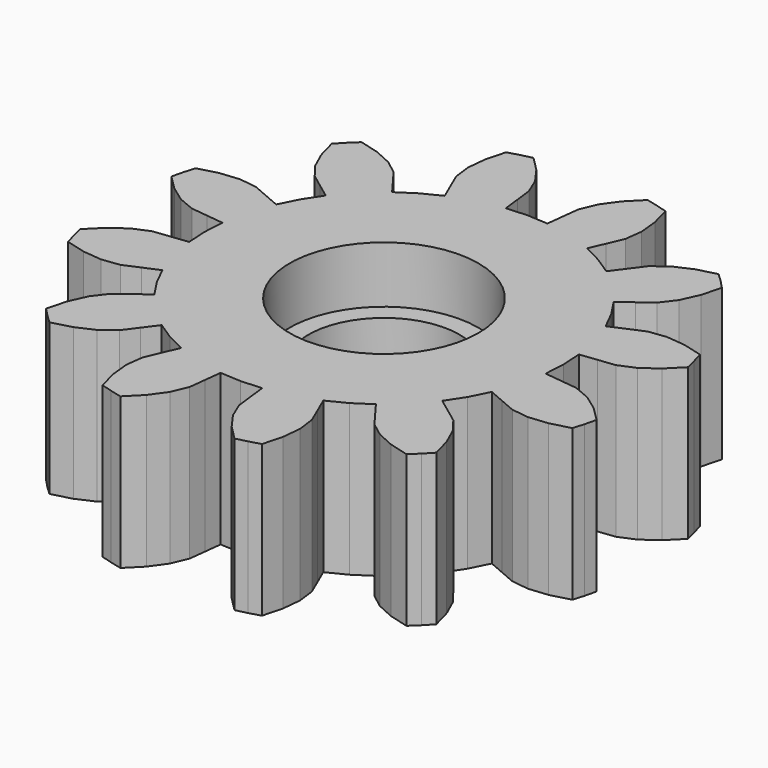
from build123d import *

# Parameters (mm, degrees)
F1_DEPTH = 4
F2_R     = 2.5
F3_DEPTH = 1.5
F4_R     = 2.5
F5_DEPTH = 1.5
F6_R     = 2
F7_DEPTH = 25


with BuildPart() as f1:
    # F0 (on Top) → F1 (new body)
    with BuildSketch(Plane.XY):
        Polygon((4.71808, -0.549743), (4.75, 0), (4.71808, 0.549743), (5.165056, 0.601824), (5.611973, 0.654414), (6.042571, 0.835065), (6.451897, 1.12939), (6.835156, 1.510179), (6.761481, 1.811733), (6.674508, 2.109724), (6.152202, 2.247869), (5.650552, 2.298099), (5.187318, 2.239248), (4.773982, 2.061333), (4.360849, 1.882949), (4.113621, 2.375), (3.811106, 2.835132), (4.172158, 3.103723), (4.532904, 3.372726), (4.815488, 3.744473), (5.022812, 4.204029), (5.164329, 4.725432), (4.949747, 4.949747), (4.725432, 5.164329), (4.204029, 5.022812), (3.744473, 4.815488), (3.372726, 4.532904), (3.103723, 4.172158), (2.835132, 3.811106), (2.375, 4.113621), (1.882949, 4.360849), (2.061333, 4.773982), (2.239248, 5.187318), (2.298099, 5.650552), (2.247869, 6.152202), (2.109724, 6.674508), (1.811733, 6.761481), (1.510179, 6.835156), (1.12939, 6.451897), (0.835065, 6.042571), (0.654414, 5.611973), (0.601824, 5.165056), (0.549743, 4.71808), (0, 4.75), (-0.549743, 4.71808), (-0.601824, 5.165056), (-0.654414, 5.611973), (-0.835065, 6.042571), (-1.12939, 6.451897), (-1.510179, 6.835156), (-1.811733, 6.761481), (-2.109724, 6.674508), (-2.247869, 6.152202), (-2.298099, 5.650552), (-2.239248, 5.187318), (-2.061333, 4.773982), (-1.882949, 4.360849), (-2.375, 4.113621), (-2.835132, 3.811106), (-3.103723, 4.172158), (-3.372726, 4.532904), (-3.744473, 4.815488), (-4.204029, 5.022812), (-4.725432, 5.164329), (-4.949747, 4.949747), (-5.164329, 4.725432), (-5.022812, 4.204029), (-4.815488, 3.744473), (-4.532904, 3.372726), (-4.172158, 3.103723), (-3.811106, 2.835132), (-4.113621, 2.375), (-4.360849, 1.882949), (-4.773982, 2.061333), (-5.187318, 2.239248), (-5.650552, 2.298099), (-6.152202, 2.247869), (-6.674508, 2.109724), (-6.761481, 1.811733), (-6.835156, 1.510179), (-6.451897, 1.12939), (-6.042571, 0.835065), (-5.611973, 0.654414), (-5.165056, 0.601824), (-4.71808, 0.549743), (-4.75, 0), (-4.71808, -0.549743), (-5.165056, -0.601824), (-5.611973, -0.654414), (-6.042571, -0.835065), (-6.451897, -1.12939), (-6.835156, -1.510179), (-6.761481, -1.811733), (-6.674508, -2.109724), (-6.152202, -2.247869), (-5.650552, -2.298099), (-5.187318, -2.239248), (-4.773982, -2.061333), (-4.360849, -1.882949), (-4.113621, -2.375), (-3.811106, -2.835132), (-4.172158, -3.103723), (-4.532904, -3.372726), (-4.815488, -3.744473), (-5.022812, -4.204029), (-5.164329, -4.725432), (-4.949747, -4.949747), (-4.725432, -5.164329), (-4.204029, -5.022812), (-3.744473, -4.815488), (-3.372726, -4.532904), (-3.103723, -4.172158), (-2.835132, -3.811106), (-2.375, -4.113621), (-1.882949, -4.360849), (-2.061333, -4.773982), (-2.239248, -5.187318), (-2.298099, -5.650552), (-2.247869, -6.152202), (-2.109724, -6.674508), (-1.811733, -6.761481), (-1.510179, -6.835156), (-1.12939, -6.451897), (-0.835065, -6.042571), (-0.654414, -5.611973), (-0.601824, -5.165056), (-0.549743, -4.71808), (0, -4.75), (0.549743, -4.71808), (0.601824, -5.165056), (0.654414, -5.611973), (0.835065, -6.042571), (1.12939, -6.451897), (1.510179, -6.835156), (1.811733, -6.761481), (2.109724, -6.674508), (2.247869, -6.152202), (2.298099, -5.650552), (2.239248, -5.187318), (2.061333, -4.773982), (1.882949, -4.360849), (2.375, -4.113621), (2.835132, -3.811106), (3.103723, -4.172158), (3.372726, -4.532904), (3.744473, -4.815488), (4.204029, -5.022812), (4.725432, -5.164329), (4.949747, -4.949747), (5.164329, -4.725432), (5.022812, -4.204029), (4.815488, -3.744473), (4.532904, -3.372726), (4.172158, -3.103723), (3.811106, -2.835132), (4.113621, -2.375), (4.360849, -1.882949), (4.773982, -2.061333), (5.187318, -2.239248), (5.650552, -2.298099), (6.152202, -2.247869), (6.674508, -2.109724), (6.761481, -1.811733), (6.835156, -1.510179), (6.451897, -1.12939), (6.042571, -0.835065), (5.611973, -0.654414), (5.165056, -0.601824), align=None)
    extrude(amount=F1_DEPTH)

    # F2 (on face) → F3 (cut)
    with BuildSketch(Plane(origin=(0, 0, 0), x_dir=(1, 0, 0), z_dir=(0, 0, -1))):
        Circle(F2_R)
    extrude(amount=-F3_DEPTH, mode=Mode.SUBTRACT)

    # F4 (on face) → F5 (cut)
    with BuildSketch(Plane.XY.offset(4)):
        Circle(F4_R)
    extrude(amount=-F5_DEPTH, mode=Mode.SUBTRACT)

    # F6 (on face) → F7 (cut)
    with BuildSketch(Plane.XY.offset(2.5)):
        Circle(F6_R)
    extrude(amount=-F7_DEPTH, mode=Mode.SUBTRACT)


solid = f1.part
